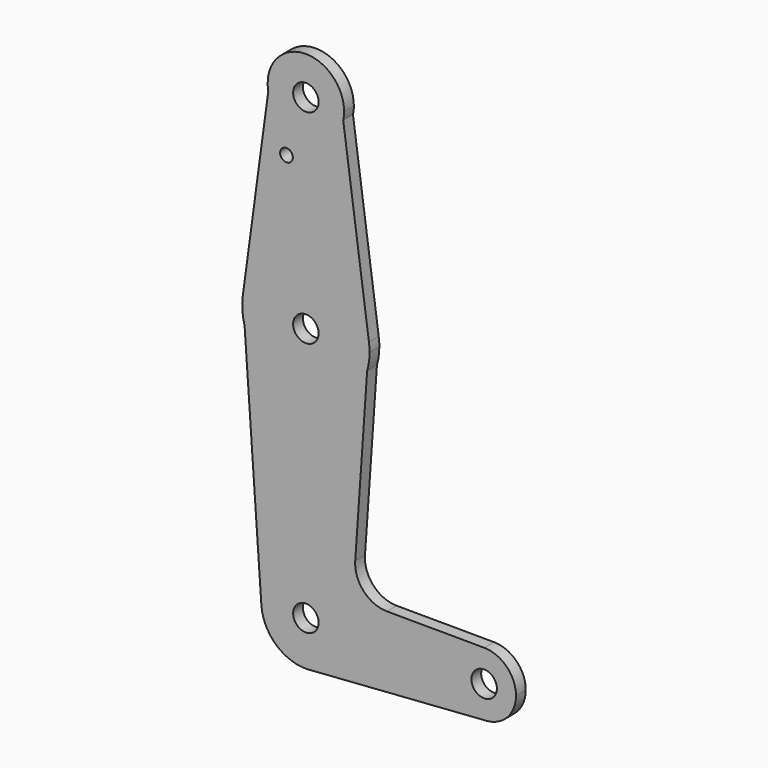
from build123d import *

# Parameters (mm, degrees)
F0_R     = 3.175
F0_R_2   = 1.5875
F1_DEPTH = 3.048


with BuildPart() as f1:
    # F0 (on Front) → F1 (new body)
    with BuildSketch(Plane.XZ):
        with BuildLine():
            ThreePointArc((-28.9460971923, -30.2349827202), (-21.9498764662, -26.5737727814), (-19.1468597901, -19.1917229185))
            ThreePointArc((-19.1468597901, -19.1917229185), (-30.656643458, -8.076252595), (-41.3642998713, -19.9663701187))
            ThreePointArc((-41.3642998713, -19.9663701187), (-37.758308132, -27.4145820213), (-30.0064899894, -30.3108472808))
            Line((-30.0064899894, -30.3108472808), (-28.9460971923, -30.2349827202))
        make_face()
        with Locations((-30.2690844983, -19.1917229185)):
            Circle(F0_R, mode=Mode.SUBTRACT)
        with BuildLine():
            ThreePointArc((-41.3642998713, -19.9663701187), (-30.656643458, -8.076252595), (-19.1468597901, -19.1917229185))
            ThreePointArc((-19.1468597901, -19.1917229185), (-21.9498764662, -26.5737727814), (-28.9460971923, -30.2349827202))
            Line((-28.9460971923, -30.2349827202), (14.7473468469, -27.1089864471))
            ThreePointArc((14.7473468469, -27.1089864471), (6.2478963969, -19.4583952503), (14.2143835592, -11.254293477))
            Line((14.2143835592, -11.254293477), (-10.0692416844, -11.1519019193))
            ThreePointArc((-10.0692416844, -11.1519019193), (-15.8609618616, -8.6121550359), (-17.966673409, -2.6489079571))
            Line((-17.966673409, -2.6489079571), (-14.9948602635, 39.9823437688))
            ThreePointArc((-14.9948602635, 39.9823437688), (-30.284985121, 28.4332850446), (-45.5519439126, 40.0129501878))
            Line((-45.5519439126, 40.0129501878), (-41.3642998713, -19.9663701187))
        make_face()
        with BuildLine():
            ThreePointArc((-30.0064899894, -30.3108472808), (-29.4753866459, -30.2855917738), (-28.9460971923, -30.2349827202))
            Line((-28.9460971923, -30.2349827202), (-30.0064899894, -30.3108472808))
        make_face()
        with BuildLine():
            Line((-46.0005457828, 46.4382420703), (-45.5519439126, 40.0129501878))
            ThreePointArc((-45.5519439126, 40.0129501878), (-30.284985121, 28.4332850446), (-14.9948602635, 39.9823437688))
            Line((-14.9948602635, 39.9823437688), (-14.5423882802, 46.4731445283))
            ThreePointArc((-14.5423882802, 46.4731445283), (-30.2866976144, 60.1832673107), (-46.0005457828, 46.4382420703))
        make_face()
        with Locations((-30.2690844983, 44.3082770815)):
            Circle(F0_R, mode=Mode.SUBTRACT)
        with BuildLine():
            ThreePointArc((-46.0005457828, 46.4382420703), (-46.1055334704, 43.2026058129), (-45.5519439126, 40.0129501878))
            Line((-45.5519439126, 40.0129501878), (-46.0005457828, 46.4382420703))
        make_face()
        with BuildLine():
            ThreePointArc((14.2143835592, -11.254293477), (6.2478963969, -19.4583952503), (14.7473468469, -27.1089864471))
            ThreePointArc((14.7473468469, -27.1089864471), (19.9903885868, -24.6004130302), (22.1184155017, -19.1917229185))
            ThreePointArc((22.1184155017, -19.1917229185), (19.8053958758, -13.5909080874), (14.2143835592, -11.254293477))
        make_face()
        with Locations((14.1809155017, -19.1917229185)):
            Circle(F0_R, mode=Mode.SUBTRACT)
        with BuildLine():
            Line((-39.6410796293, 93.4078852842), (-46.0005457828, 46.4382420703))
            ThreePointArc((-46.0005457828, 46.4382420703), (-30.2866976144, 60.1832673107), (-14.5423882802, 46.4731445283))
            Line((-14.5423882802, 46.4731445283), (-20.95981222, 93.0925700967))
            ThreePointArc((-20.95981222, 93.0925700967), (-30.4298310563, 85.58463358), (-39.6410796293, 93.4078852842))
        make_face()
        with Locations((-35.1027436554, 80.8334770815)):
            Circle(F0_R_2, mode=Mode.SUBTRACT)
        with BuildLine():
            Line((-14.5423882802, 46.4731445283), (-14.9948602635, 39.9823437688))
            ThreePointArc((-14.9948602635, 39.9823437688), (-14.5449957373, 42.1245514493), (-14.3940844983, 44.3082770815))
            ThreePointArc((-14.3940844983, 44.3082770815), (-14.4312038405, 45.3932477118), (-14.5423882802, 46.4731445283))
        make_face()
        with BuildLine():
            ThreePointArc((-20.7440844983, 95.1082770815), (-31.1227153837, 104.5949487482), (-39.6410796293, 93.4078852842))
            ThreePointArc((-39.6410796293, 93.4078852842), (-30.4298310563, 85.58463358), (-20.95981222, 93.0925700967))
            ThreePointArc((-20.95981222, 93.0925700967), (-20.7981699846, 94.0946680471), (-20.7440844983, 95.1082770815))
        make_face()
        with Locations((-30.2690844983, 95.1082770815)):
            Circle(F0_R, mode=Mode.SUBTRACT)
    extrude(amount=F1_DEPTH)


solid = f1.part
